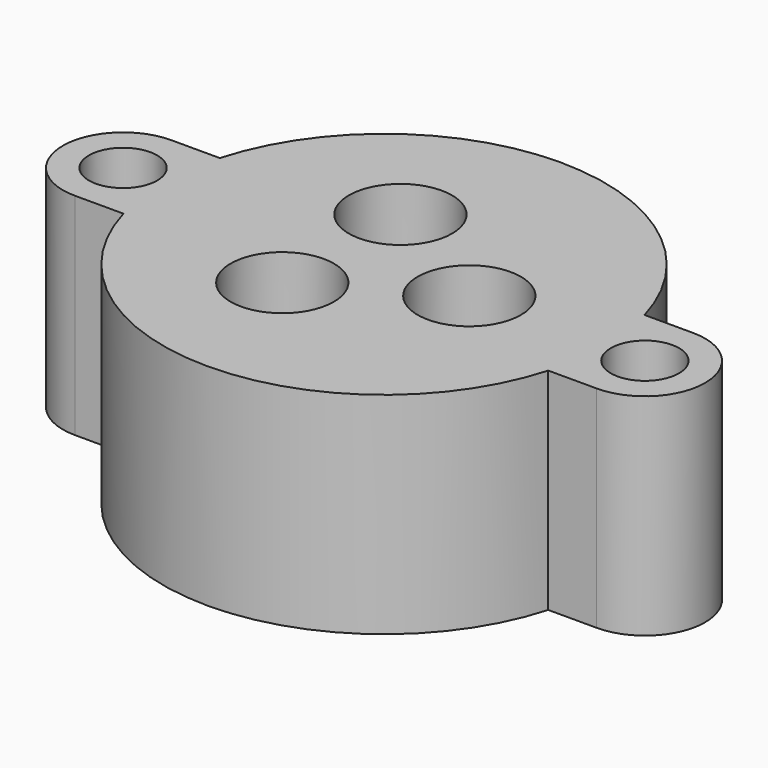
from build123d import *

# Parameters (mm, degrees)
CYLINDER191_R     = 1.7
CYLINDER191_DEPTH = 11
CYLINDER193_R     = 7.14375
CYLINDER193_DEPTH = 2.38125
CYLINDER190_R     = 9.525
CYLINDER190_DEPTH = 2.38125
CYLINDER197_R     = 2.2
CYLINDER197_DEPTH = 9
CYLINDER196_R     = 0.8
CYLINDER196_DEPTH = 5
CYLINDER192_R     = 2.575
CYLINDER192_DEPTH = 6
ARRAY004_COUNT    = 3
CYLINDER195_R     = 1.7
CYLINDER195_DEPTH = 11
BOX008_W          = 3
BOX008_H          = 6
BOX008_DEPTH      = 10.5
BOX009_W          = 3
BOX009_H          = 6
BOX009_DEPTH      = 10.5
CYLINDER198_R     = 3
CYLINDER198_DEPTH = 10.5
CYLINDER194_R     = 11
CYLINDER194_DEPTH = 10.5
CYLINDER199_R     = 3
CYLINDER199_DEPTH = 10.5


with BuildPart() as obj1:
    # Cylinder191 → Cylinder191 (new body)
    with BuildSketch(Plane(origin=(-13, 0, 0), x_dir=(1, 0, 0), z_dir=(0, 0, 1))):
        Circle(CYLINDER191_R)
    extrude(amount=CYLINDER191_DEPTH)


with BuildPart() as cylinder017:
    # Cylinder193 → Cylinder193 (new body)
    with BuildSketch(Plane.XY):
        Circle(CYLINDER193_R)
    extrude(amount=CYLINDER193_DEPTH)


with BuildPart() as oring004:
    # Cylinder190 → Cylinder190 (new body)
    with BuildSketch(Plane.XY):
        Circle(CYLINDER190_R)
    extrude(amount=CYLINDER190_DEPTH)

    # Cut028: cut Cylinder017
    add(cylinder017.part, mode=Mode.SUBTRACT)


with BuildPart() as oring004_1:
    # Cut028 placement: moved
    add(oring004.part.moved(Location((0, 0, -0.75))))


with BuildPart() as sealsubtraction004:
    # Cylinder197 → Cylinder197 (new body)
    with BuildSketch(Plane.XY.offset(1.3)):
        Circle(CYLINDER197_R)
    extrude(amount=CYLINDER197_DEPTH)


with BuildPart() as bottomwireoutlet004:
    # Cylinder196 → Cylinder196 (new body)
    with BuildSketch(Plane.XY.offset(-2)):
        Circle(CYLINDER196_R)
    extrude(amount=CYLINDER196_DEPTH)


with BuildPart() as sealarray004:
    # Cylinder192 → Cylinder192 (new body)
    with BuildSketch(Plane.XY.offset(4.5)):
        Circle(CYLINDER192_R)
    extrude(amount=CYLINDER192_DEPTH)

    # Fusion013: union SealSubtraction004, BottomWireOutlet004
    add(sealsubtraction004.part)
    add(bottomwireoutlet004.part)


with BuildPart() as sealarray004_1:
    # Fusion013 placement: moved
    add(sealarray004.part.moved(Location((4.25, 0, 0))))

    # Array004: SealArray004 ×3 about axis
    array004_axis = Axis((0, 0, 0), (0, 0, 1))


with BuildPart() as sealarray004_2:
    add(sealarray004_1.part)
    for i in range(1, ARRAY004_COUNT):
        add(sealarray004_1.part.rotate(array004_axis, i * 360 / ARRAY004_COUNT))


with BuildPart() as fusion014:
    # Cylinder195 → Cylinder195 (new body)
    with BuildSketch(Plane(origin=(13, 0, 0), x_dir=(1, 0, 0), z_dir=(0, 0, 1))):
        Circle(CYLINDER195_R)
    extrude(amount=CYLINDER195_DEPTH)

    # Fusion014: union obj1, Oring004, SealArray004
    add(obj1.part)
    add(oring004_1.part)
    add(sealarray004_2.part)


with BuildPart() as mountcube009:
    # Box008 → Box008 (new body)
    with BuildSketch(Plane(origin=(10, -3, 0), x_dir=(1, 0, 0), z_dir=(0, 0, 1))):
        with Locations((1.5, 3)):
            Rectangle(BOX008_W, BOX008_H)
    extrude(amount=BOX008_DEPTH)


with BuildPart() as mountcube010:
    # Box009 → Box009 (new body)
    with BuildSketch(Plane(origin=(-13, -3, 0), x_dir=(1, 0, 0), z_dir=(0, 0, 1))):
        with Locations((1.5, 3)):
            Rectangle(BOX009_W, BOX009_H)
    extrude(amount=BOX009_DEPTH)


with BuildPart() as mountflange009:
    # Cylinder198 → Cylinder198 (new body)
    with BuildSketch(Plane(origin=(-13, 0, 0), x_dir=(1, 0, 0), z_dir=(0, 0, 1))):
        Circle(CYLINDER198_R)
    extrude(amount=CYLINDER198_DEPTH)


with BuildPart() as body004:
    # Cylinder194 → Cylinder194 (new body)
    with BuildSketch(Plane.XY):
        Circle(CYLINDER194_R)
    extrude(amount=CYLINDER194_DEPTH)


with BuildPart() as cut027:
    # Cylinder199 → Cylinder199 (new body)
    with BuildSketch(Plane(origin=(13, 0, 0), x_dir=(1, 0, 0), z_dir=(0, 0, 1))):
        Circle(CYLINDER199_R)
    extrude(amount=CYLINDER199_DEPTH)

    # Fusion012: union MountCube009, MountCube010, MountFlange009, Body004
    add(mountcube009.part)
    add(mountcube010.part)
    add(mountflange009.part)
    add(body004.part)

    # Cut027: cut Fusion014
    add(fusion014.part, mode=Mode.SUBTRACT)


with BuildPart() as cut027_1:
    # Cut027 placement: moved
    add(cut027.part.moved(Location((0, 0, -10.5))))


solid = cut027_1.part
